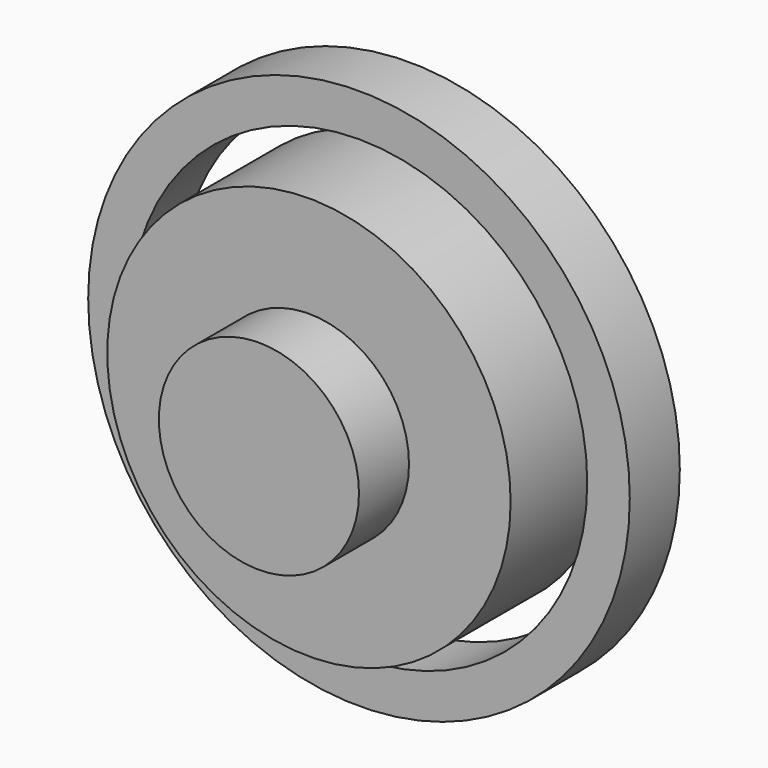
from build123d import *

# Parameters (mm, degrees)
F1_R     = 4.064
F2_DEPTH = 7.62
F3_R     = 8.191674
F4_DEPTH = 5.08
F0_R     = 10.9982
F0_R_2   = 9.271
F5_DEPTH = 2.54


with BuildPart() as f2:
    # F1 (on Front) → F2 (new body)
    with BuildSketch(Plane.XZ):
        Circle(F1_R)
    extrude(amount=F2_DEPTH)

    # F3 (on Front) → F4 (join)
    with BuildSketch(Plane.XZ):
        Circle(F3_R)
    extrude(amount=F4_DEPTH)


with BuildPart() as f5:
    # F0 (on Front) → F5 (new body)
    with BuildSketch(Plane.XZ):
        Circle(F0_R)
        Circle(F0_R_2, mode=Mode.SUBTRACT)
    extrude(amount=F5_DEPTH)


solid = Compound([f2.part, f5.part])
